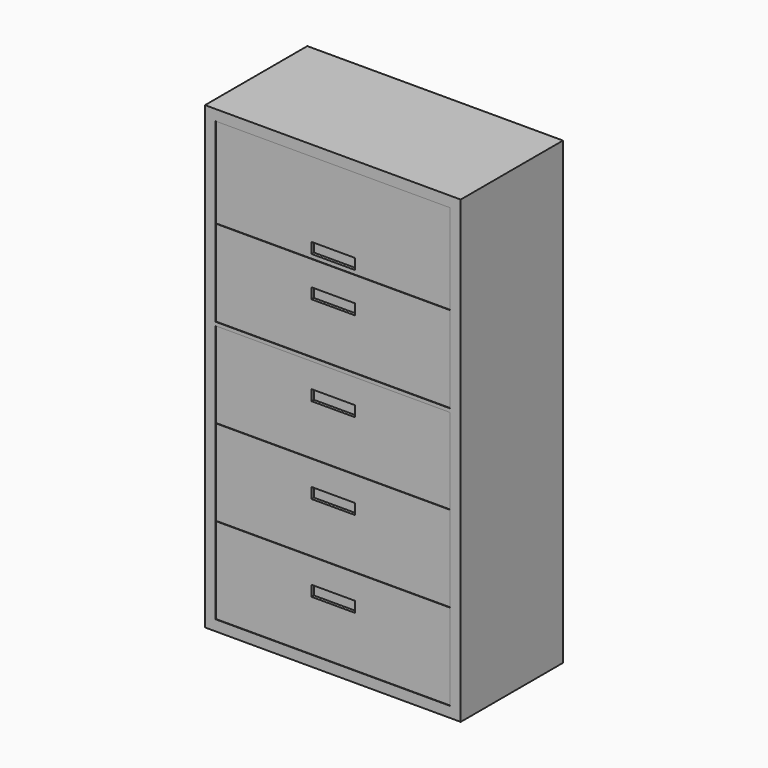
from build123d import *

# Parameters (mm, degrees)
F0_W     = 914.4
F0_H     = 457.2
F1_DEPTH = 1644.65
F2_W     = 838.2
F2_H     = 307.975
F2_W_2   = 155.575
F2_H_2   = 38.1
F2_H_3   = 306.705
F2_H_4   = 322.58
F3_DEPTH = 1.905
F2_H_5   = 1.27
F4_DEPTH = 25.4
F5_DEPTH = 12.7


with BuildPart() as f1:
    # F0 (on Top) → F1 (new body)
    with BuildSketch(Plane.XY):
        with Locations((457.2, 228.6)):
            Rectangle(F0_W, F0_H)
    extrude(amount=F1_DEPTH)

    # F2 (on face) → F3 (cut)
    with BuildSketch(Plane.XZ):
        with Locations((457.2, 192.0875)):
            Rectangle(F2_W, F2_H)
        with Locations((457.2, 238.125)):
            Rectangle(F2_W_2, F2_H_2, mode=Mode.SUBTRACT)
        with Locations((457.2, 500.6975)):
            Rectangle(F2_W, F2_H_3)
        with Locations((457.2, 546.1)):
            Rectangle(F2_W_2, F2_H_2, mode=Mode.SUBTRACT)
        with Locations((457.2, 808.6725)):
            Rectangle(F2_W, F2_H_3)
        with Locations((457.2, 854.075)):
            Rectangle(F2_W_2, F2_H_2, mode=Mode.SUBTRACT)
        with Locations((457.2, 1128.7125)):
            Rectangle(F2_W, F2_H)
        with Locations((457.2, 1174.75)):
            Rectangle(F2_W_2, F2_H_2, mode=Mode.SUBTRACT)
        with Locations((457.2, 1445.26)):
            Rectangle(F2_W, F2_H_4)
        with Locations((457.2, 1317.625)):
            Rectangle(F2_W_2, F2_H_2, mode=Mode.SUBTRACT)
    extrude(amount=-F3_DEPTH, mode=Mode.SUBTRACT)

    # F2 (on face) → F4 (cut)
    with BuildSketch(Plane.XZ):
        with Locations((457.2, 346.71)):
            Rectangle(F2_W, F2_H_5)
        with Locations((457.2, 654.685)):
            Rectangle(F2_W, F2_H_5)
        with Locations((457.2, 1283.335)):
            Rectangle(F2_W, F2_H_5)
    extrude(amount=-F4_DEPTH, mode=Mode.SUBTRACT)

    # F2 (on face) → F5 (cut)
    with BuildSketch(Plane.XZ):
        with Locations((457.2, 1317.625)):
            Rectangle(F2_W_2, F2_H_2)
        with Locations((457.2, 1174.75)):
            Rectangle(F2_W_2, F2_H_2)
        with Locations((457.2, 854.075)):
            Rectangle(F2_W_2, F2_H_2)
        with Locations((457.2, 546.1)):
            Rectangle(F2_W_2, F2_H_2)
        with Locations((457.2, 238.125)):
            Rectangle(F2_W_2, F2_H_2)
    extrude(amount=-F5_DEPTH, mode=Mode.SUBTRACT)


solid = f1.part
